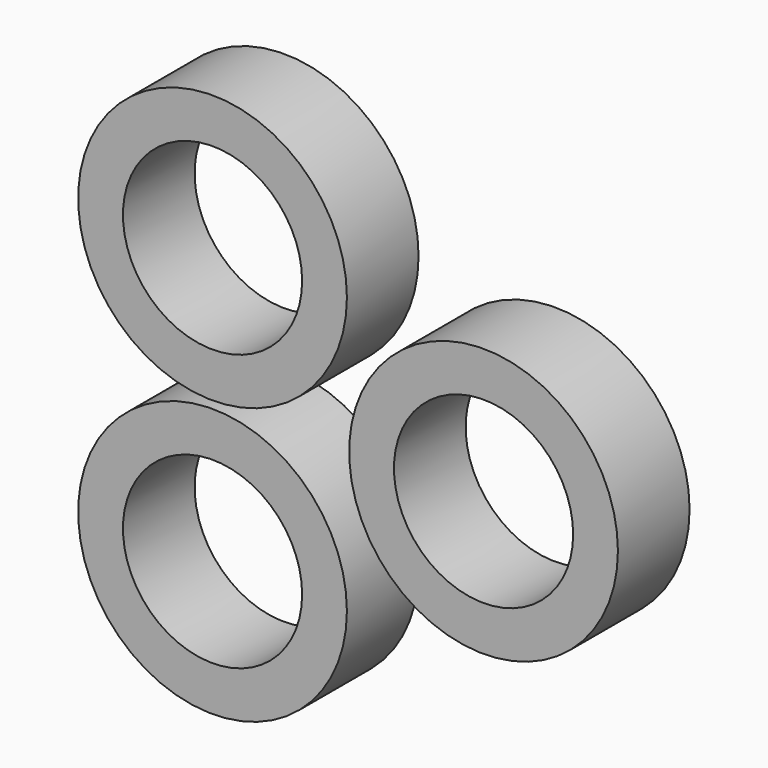
from build123d import *

# Parameters (mm, degrees)
F0_R     = 38.1
F0_R_2   = 25.4
F1_DEPTH = 25.4


with BuildPart() as f1:
    # F0 (on Front) → F1 (new body)
    with BuildSketch(Plane.XZ):
        with Locations((0, 38.278166)):
            Circle(F0_R)
        with Locations((0, 38.278166)):
            Circle(F0_R_2, mode=Mode.SUBTRACT)
        with Locations((0, -40.005002)):
            Circle(F0_R)
        with Locations((0, -40.005002)):
            Circle(F0_R_2, mode=Mode.SUBTRACT)
        with Locations((76.844133, 0)):
            Circle(F0_R)
        with Locations((76.844133, 0)):
            Circle(F0_R_2, mode=Mode.SUBTRACT)
    extrude(amount=F1_DEPTH)


solid = f1.part
